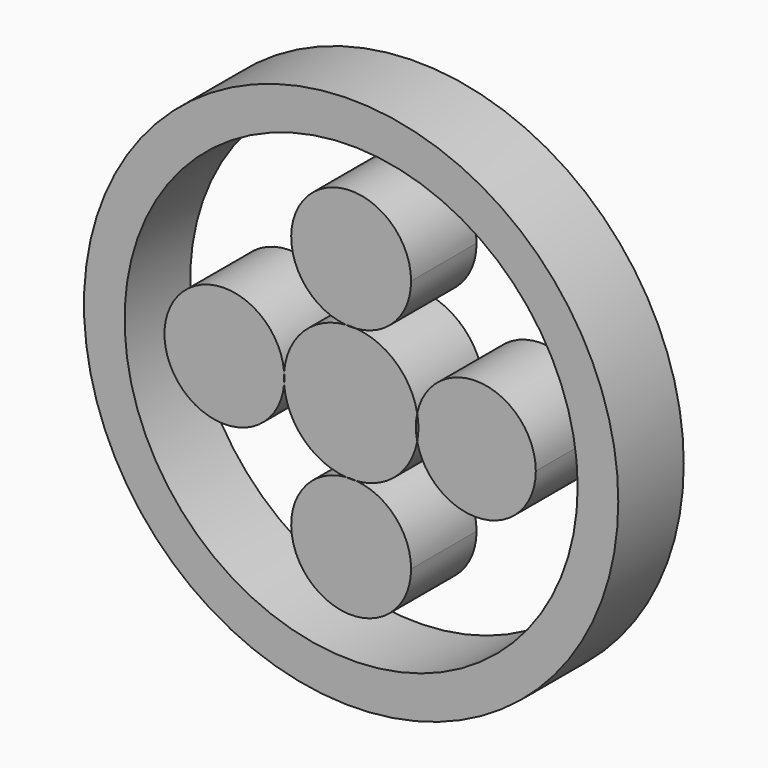
from build123d import *

# Parameters (mm, degrees)
F0_R     = 35.6556248562
F0_R_2   = 30.2358293925
F1_DEPTH = 10.922
F0_R_3   = 6.3373


with BuildPart() as f1:
    # F0 (on Front) → F1 (new body)
    with BuildSketch(Plane.XZ):
        Circle(F0_R)
        Circle(F0_R_2, mode=Mode.SUBTRACT)
    extrude(amount=F1_DEPTH)


with BuildPart() as f1b:
    # F0 (on Front) → F1, piece 2 (new body)
    with BuildSketch(Plane.XZ):
        with BuildLine():
            ThreePointArc((-0.7087351257, 8.9453169897), (0, 8.9733495153), (0.7087351257, 8.9453169897))
            ThreePointArc((0.7087351257, 8.9453169897), (5.9028209672, 11.513688683), (8.001, 16.914865002))
            ThreePointArc((8.001, 16.914865002), (-5.4011763191, 22.8176859692), (-0.7087351257, 8.9453169897))
        make_face()
    extrude(amount=F1_DEPTH)


with BuildPart() as f1c:
    # F0 (on Front) → F1, piece 3 (new body)
    with BuildSketch(Plane.XZ):
        with BuildLine():
            ThreePointArc((8.8189423852, -1.6574850619), (8.6453777423, 0), (8.8189423852, 1.6574850619))
            ThreePointArc((8.8189423852, 1.6574850619), (5.9976898252, 6.674482623), (0.7087351257, 8.9453169897))
            ThreePointArc((0.7087351257, 8.9453169897), (0, 8.913865002), (-0.7087351257, 8.9453169897))
            ThreePointArc((-0.7087351257, 8.9453169897), (-6.3451162922, 6.3451162922), (-8.9453169897, 0.7087351257))
            ThreePointArc((-8.9453169897, 0.7087351257), (-8.9217318664, 0.3547163324), (-8.913865002, 0))
            ThreePointArc((-8.913865002, 0), (-8.9217318664, -0.3547163324), (-8.9453169897, -0.7087351257))
            ThreePointArc((-8.9453169897, -0.7087351257), (-6.3451162922, -6.3451162922), (-0.7087351257, -8.9453169897))
            ThreePointArc((-0.7087351257, -8.9453169897), (0, -8.913865002), (0.7087351257, -8.9453169897))
            ThreePointArc((0.7087351257, -8.9453169897), (5.9976898252, -6.674482623), (8.8189423852, -1.6574850619))
        make_face()
        Circle(F0_R_3, mode=Mode.SUBTRACT)
        Circle(F0_R_3)
    extrude(amount=F1_DEPTH)


with BuildPart() as f1d:
    # F0 (on Front) → F1, piece 4 (new body)
    with BuildSketch(Plane.XZ):
        with BuildLine():
            ThreePointArc((8.8189423852, 1.6574850619), (8.9346643446, 0.8323308075), (8.9733495153, 0))
            ThreePointArc((8.9733495153, 0), (8.9346643446, -0.8323308075), (8.8189423852, -1.6574850619))
            ThreePointArc((8.8189423852, -1.6574850619), (17.4796516192, -7.957490537), (24.6473777423, 0))
            ThreePointArc((24.6473777423, 0), (17.4796516192, 7.957490537), (8.8189423852, 1.6574850619))
        make_face()
    extrude(amount=F1_DEPTH)


with BuildPart() as f1e:
    # F0 (on Front) → F1, piece 5 (new body)
    with BuildSketch(Plane.XZ):
        with BuildLine():
            ThreePointArc((-8.9453169897, -0.7087351257), (-8.9733495153, 0), (-8.9453169897, 0.7087351257))
            ThreePointArc((-8.9453169897, 0.7087351257), (-24.915865002, 0), (-8.9453169897, -0.7087351257))
        make_face()
    extrude(amount=F1_DEPTH)


with BuildPart() as f1f:
    # F0 (on Front) → F1, piece 6 (new body)
    with BuildSketch(Plane.XZ):
        with BuildLine():
            ThreePointArc((8.001, -16.914865002), (5.9028209672, -11.513688683), (0.7087351257, -8.9453169897))
            ThreePointArc((0.7087351257, -8.9453169897), (0, -8.9733495153), (-0.7087351257, -8.9453169897))
            ThreePointArc((-0.7087351257, -8.9453169897), (-5.4011763191, -22.8176859692), (8.001, -16.914865002))
        make_face()
    extrude(amount=F1_DEPTH)


solid = Compound([f1.part, f1b.part, f1c.part, f1d.part, f1e.part, f1f.part])
